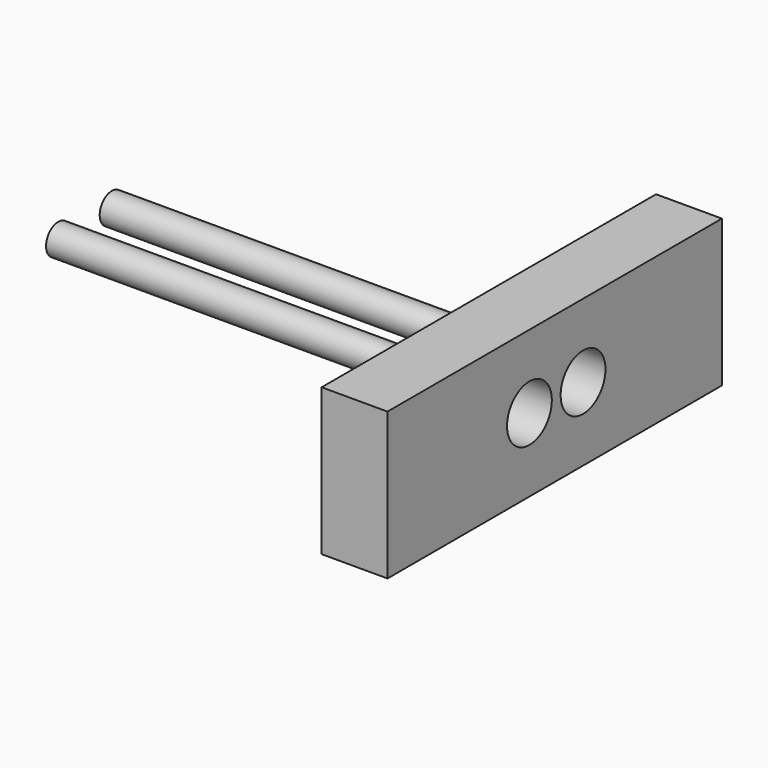
from build123d import *

# Parameters (mm, degrees)
F0_R     = 9.525
F1_DEPTH = 254
F3_W     = 261.94
F3_H     = 92.075
F4_DEPTH = 41.275
F2_R     = 17.55
F5_DEPTH = 65.2


with BuildPart() as f1:
    # F0 (on Right) → F1 (new body)
    with BuildSketch(Plane.YZ):
        with Locations((-44.933274, 0)):
            Circle(F0_R)
        with Locations((-2.933274, 0)):
            Circle(F0_R)
    extrude(amount=-F1_DEPTH)


with BuildPart() as f4:
    # F3 (on Right) → F4 (new body)
    with BuildSketch(Plane.YZ):
        with Locations((-25.129005, 0)):
            Rectangle(F3_W, F3_H)
    extrude(amount=F4_DEPTH)

    # F2 (on Right) → F5 (cut)
    with BuildSketch(Plane.YZ):
        with Locations((-44.933274, 0)):
            Circle(F2_R)
        with Locations((-2.933274, 0)):
            Circle(F2_R)
    extrude(amount=F5_DEPTH, mode=Mode.SUBTRACT)


solid = Compound([f1.part, f4.part])
